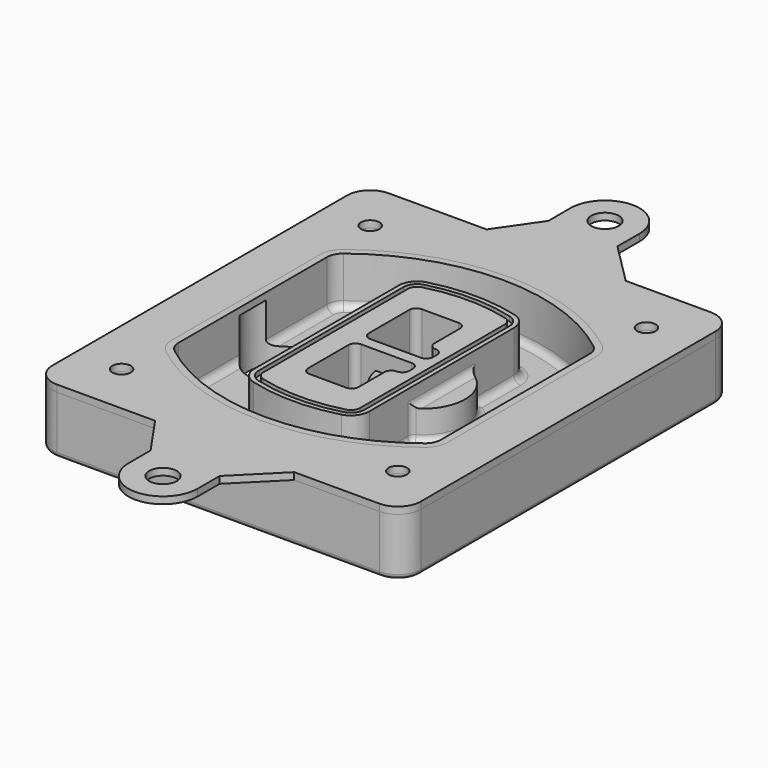
from build123d import *

# Parameters (mm, degrees)
F0_R      = 4
F1_DEPTH  = 25
F2_DEPTH  = 3
F3_DEPTH  = 18
F5_DEPTH  = 21
F6_DEPTH  = 2
F8_DEPTH  = 20
F9_DEPTH  = 16
F10_DEPTH = 25
F7_R      = 6
F7_R_2    = 4
F11_DEPTH = 6
F13_DEPTH = 9
F14_R     = 3
F15_R     = 2
F16_R     = 4
F16_R_2   = 6
F17_DEPTH = 3


with BuildPart() as f1:
    # F0 (on Top) → F1 (new body)
    with BuildSketch(Plane.XY):
        with BuildLine():
            ThreePointArc((-80, -80), (-77.0710678119, -87.0710678119), (-70, -90))
            Line((-70, -90), (70, -90))
            ThreePointArc((70, -90), (77.0710678119, -87.0710678119), (80, -80))
            Line((80, -80), (80, 80))
            ThreePointArc((80, 80), (77.0710678119, 87.0710678119), (70, 90))
            Line((70, 90), (-70, 90))
            ThreePointArc((-70, 90), (-77.0710678119, 87.0710678119), (-80, 80))
            Line((-80, 80), (-80, -80))
        make_face()
        with Locations((-60, -67.5)):
            Circle(F0_R, mode=Mode.SUBTRACT)
        with Locations((60, -67.5)):
            Circle(F0_R, mode=Mode.SUBTRACT)
        with Locations((-60, 67.5)):
            Circle(F0_R, mode=Mode.SUBTRACT)
        with BuildLine():
            ThreePointArc((-64, 40.2934422872), (-62.5820384798, 46.4328484224), (-58.6153846154, 51.3286200352))
            ThreePointArc((-58.6153846154, 51.3286200352), (0, 71.5), (58.6153846154, 51.3286200352))
            ThreePointArc((58.6153846154, 51.3286200352), (62.5820384798, 46.4328484224), (64, 40.2934422872))
            Line((64, 40.2934422872), (64, -40.2934422872))
            ThreePointArc((64, -40.2934422872), (62.5820384798, -46.4328484224), (58.6153846154, -51.3286200352))
            ThreePointArc((58.6153846154, -51.3286200352), (0, -71.5), (-58.6153846154, -51.3286200352))
            ThreePointArc((-58.6153846154, -51.3286200352), (-62.5820384798, -46.4328484224), (-64, -40.2934422872))
            Line((-64, -40.2934422872), (-64, 40.2934422872))
        make_face(mode=Mode.SUBTRACT)
        with Locations((60, 67.5)):
            Circle(F0_R, mode=Mode.SUBTRACT)
        with BuildLine():
            ThreePointArc((58.6153846154, 51.3286200352), (0, 71.5), (-58.6153846154, 51.3286200352))
            ThreePointArc((-58.6153846154, 51.3286200352), (-62.5820384798, 46.4328484224), (-64, 40.2934422872))
            Line((-64, 40.2934422872), (-64, -40.2934422872))
            ThreePointArc((-64, -40.2934422872), (-62.5820384798, -46.4328484224), (-58.6153846154, -51.3286200352))
            ThreePointArc((-58.6153846154, -51.3286200352), (0, -71.5), (58.6153846154, -51.3286200352))
            ThreePointArc((58.6153846154, -51.3286200352), (62.5820384798, -46.4328484224), (64, -40.2934422872))
            Line((64, -40.2934422872), (64, 40.2934422872))
            ThreePointArc((64, 40.2934422872), (62.5820384798, 46.4328484224), (58.6153846154, 51.3286200352))
        make_face()
        with BuildLine():
            Line((-60, -40.2934422872), (-60, 40.2934422872))
            ThreePointArc((-60, 40.2934422872), (-58.9871703427, 44.6787323838), (-56.1538461538, 48.1757121072))
            ThreePointArc((-56.1538461538, 48.1757121072), (0, 67.5), (56.1538461538, 48.1757121072))
            ThreePointArc((56.1538461538, 48.1757121072), (58.9871703427, 44.6787323838), (60, 40.2934422872))
            Line((60, 40.2934422872), (60, -40.2934422872))
            ThreePointArc((60, -40.2934422872), (58.9871703427, -44.6787323838), (56.1538461538, -48.1757121072))
            ThreePointArc((56.1538461538, -48.1757121072), (0, -67.5), (-56.1538461538, -48.1757121072))
            ThreePointArc((-56.1538461538, -48.1757121072), (-58.9871703427, -44.6787323838), (-60, -40.2934422872))
        make_face(mode=Mode.SUBTRACT)
        with BuildLine():
            ThreePointArc((-56.1538461538, 48.1757121072), (-58.9871703427, 44.6787323838), (-60, 40.2934422872))
            Line((-60, 40.2934422872), (-60, -40.2934422872))
            ThreePointArc((-60, -40.2934422872), (-58.9871703427, -44.6787323838), (-56.1538461538, -48.1757121072))
            ThreePointArc((-56.1538461538, -48.1757121072), (0, -67.5), (56.1538461538, -48.1757121072))
            ThreePointArc((56.1538461538, -48.1757121072), (58.9871703427, -44.6787323838), (60, -40.2934422872))
            Line((60, -40.2934422872), (60, 40.2934422872))
            ThreePointArc((60, 40.2934422872), (58.9871703427, 44.6787323838), (56.1538461538, 48.1757121072))
            ThreePointArc((56.1538461538, 48.1757121072), (0, 67.5), (-56.1538461538, 48.1757121072))
        make_face()
        with BuildLine():
            ThreePointArc((54.3076923077, 45.8110311612), (56.2910192399, 43.3631453548), (57, 40.2934422872))
            Line((57, 40.2934422872), (57, -40.2934422872))
            ThreePointArc((57, -40.2934422872), (56.2910192399, -43.3631453548), (54.3076923077, -45.8110311612))
            ThreePointArc((54.3076923077, -45.8110311612), (0, -64.5), (-54.3076923077, -45.8110311612))
            ThreePointArc((-54.3076923077, -45.8110311612), (-56.2910192399, -43.3631453548), (-57, -40.2934422872))
            Line((-57, -40.2934422872), (-57, 40.2934422872))
            ThreePointArc((-57, 40.2934422872), (-56.2910192399, 43.3631453548), (-54.3076923077, 45.8110311612))
            ThreePointArc((-54.3076923077, 45.8110311612), (0, 64.5), (54.3076923077, 45.8110311612))
        make_face(mode=Mode.SUBTRACT)
        with BuildLine():
            Line((57, -40.2934422872), (57, 40.2934422872))
            ThreePointArc((57, 40.2934422872), (56.2910192399, 43.3631453548), (54.3076923077, 45.8110311612))
            ThreePointArc((54.3076923077, 45.8110311612), (0, 64.5), (-54.3076923077, 45.8110311612))
            ThreePointArc((-54.3076923077, 45.8110311612), (-56.2910192399, 43.3631453548), (-57, 40.2934422872))
            Line((-57, 40.2934422872), (-57, -40.2934422872))
            ThreePointArc((-57, -40.2934422872), (-56.2910192399, -43.3631453548), (-54.3076923077, -45.8110311612))
            ThreePointArc((-54.3076923077, -45.8110311612), (0, -64.5), (54.3076923077, -45.8110311612))
            ThreePointArc((54.3076923077, -45.8110311612), (56.2910192399, -43.3631453548), (57, -40.2934422872))
        make_face()
    extrude(amount=-F1_DEPTH)

    # F0 (on Top) → F2 (join)
    with BuildSketch(Plane.XY):
        with BuildLine():
            ThreePointArc((-56.1538461538, 48.1757121072), (-58.9871703427, 44.6787323838), (-60, 40.2934422872))
            Line((-60, 40.2934422872), (-60, -40.2934422872))
            ThreePointArc((-60, -40.2934422872), (-58.9871703427, -44.6787323838), (-56.1538461538, -48.1757121072))
            ThreePointArc((-56.1538461538, -48.1757121072), (0, -67.5), (56.1538461538, -48.1757121072))
            ThreePointArc((56.1538461538, -48.1757121072), (58.9871703427, -44.6787323838), (60, -40.2934422872))
            Line((60, -40.2934422872), (60, 40.2934422872))
            ThreePointArc((60, 40.2934422872), (58.9871703427, 44.6787323838), (56.1538461538, 48.1757121072))
            ThreePointArc((56.1538461538, 48.1757121072), (0, 67.5), (-56.1538461538, 48.1757121072))
        make_face()
        with BuildLine():
            ThreePointArc((54.3076923077, 45.8110311612), (56.2910192399, 43.3631453548), (57, 40.2934422872))
            Line((57, 40.2934422872), (57, -40.2934422872))
            ThreePointArc((57, -40.2934422872), (56.2910192399, -43.3631453548), (54.3076923077, -45.8110311612))
            ThreePointArc((54.3076923077, -45.8110311612), (0, -64.5), (-54.3076923077, -45.8110311612))
            ThreePointArc((-54.3076923077, -45.8110311612), (-56.2910192399, -43.3631453548), (-57, -40.2934422872))
            Line((-57, -40.2934422872), (-57, 40.2934422872))
            ThreePointArc((-57, 40.2934422872), (-56.2910192399, 43.3631453548), (-54.3076923077, 45.8110311612))
            ThreePointArc((-54.3076923077, 45.8110311612), (0, 64.5), (54.3076923077, 45.8110311612))
        make_face(mode=Mode.SUBTRACT)
    extrude(amount=F2_DEPTH)

    # F0 (on Top) → F3 (cut)
    with BuildSketch(Plane.XY):
        with BuildLine():
            Line((57, -40.2934422872), (57, 40.2934422872))
            ThreePointArc((57, 40.2934422872), (56.2910192399, 43.3631453548), (54.3076923077, 45.8110311612))
            ThreePointArc((54.3076923077, 45.8110311612), (0, 64.5), (-54.3076923077, 45.8110311612))
            ThreePointArc((-54.3076923077, 45.8110311612), (-56.2910192399, 43.3631453548), (-57, 40.2934422872))
            Line((-57, 40.2934422872), (-57, -40.2934422872))
            ThreePointArc((-57, -40.2934422872), (-56.2910192399, -43.3631453548), (-54.3076923077, -45.8110311612))
            ThreePointArc((-54.3076923077, -45.8110311612), (0, -64.5), (54.3076923077, -45.8110311612))
            ThreePointArc((54.3076923077, -45.8110311612), (56.2910192399, -43.3631453548), (57, -40.2934422872))
        make_face()
    extrude(amount=-F3_DEPTH, mode=Mode.SUBTRACT)

    # F4 (on face) → F5 (join, through all)
    with BuildSketch(Plane.XY.offset(3)):
        with BuildLine():
            ThreePointArc((-25, -39.2465276821), (-23.3511545998, -44.1109737193), (-19.0842911877, -46.9702398883))
            ThreePointArc((-19.0842911877, -46.9702398883), (0, -49.5), (19.0842911877, -46.9702398883))
            ThreePointArc((19.0842911877, -46.9702398883), (23.3511545998, -44.1109737193), (25, -39.2465276821))
            Line((25, -39.2465276821), (25, 39.2465276821))
            ThreePointArc((25, 39.2465276821), (23.3511545998, 44.1109737193), (19.0842911877, 46.9702398883))
            ThreePointArc((19.0842911877, 46.9702398883), (0, 49.5), (-19.0842911877, 46.9702398883))
            ThreePointArc((-19.0842911877, 46.9702398883), (-23.3511545998, 44.1109737193), (-25, 39.2465276821))
            Line((-25, 39.2465276821), (-25, -39.2465276821))
        make_face()
        with BuildLine():
            ThreePointArc((18.5632183908, 45.0393118368), (21.7633659499, 42.89486221), (23, 39.2465276821))
            Line((23, 39.2465276821), (23, -39.2465276821))
            ThreePointArc((23, -39.2465276821), (21.7633659499, -42.89486221), (18.5632183908, -45.0393118368))
            ThreePointArc((18.5632183908, -45.0393118368), (0, -47.5), (-18.5632183908, -45.0393118368))
            ThreePointArc((-18.5632183908, -45.0393118368), (-21.7633659499, -42.89486221), (-23, -39.2465276821))
            Line((-23, -39.2465276821), (-23, 39.2465276821))
            ThreePointArc((-23, 39.2465276821), (-21.7633659499, 42.89486221), (-18.5632183908, 45.0393118368))
            ThreePointArc((-18.5632183908, 45.0393118368), (0, 47.5), (18.5632183908, 45.0393118368))
        make_face(mode=Mode.SUBTRACT)
        with BuildLine():
            Line((23, -39.2465276821), (23, 39.2465276821))
            ThreePointArc((23, 39.2465276821), (21.7633659499, 42.89486221), (18.5632183908, 45.0393118368))
            ThreePointArc((18.5632183908, 45.0393118368), (0, 47.5), (-18.5632183908, 45.0393118368))
            ThreePointArc((-18.5632183908, 45.0393118368), (-21.7633659499, 42.89486221), (-23, 39.2465276821))
            Line((-23, 39.2465276821), (-23, -39.2465276821))
            ThreePointArc((-23, -39.2465276821), (-21.7633659499, -42.89486221), (-18.5632183908, -45.0393118368))
            ThreePointArc((-18.5632183908, -45.0393118368), (0, -47.5), (18.5632183908, -45.0393118368))
            ThreePointArc((18.5632183908, -45.0393118368), (21.7633659499, -42.89486221), (23, -39.2465276821))
        make_face()
        with BuildLine():
            ThreePointArc((18.0421455939, 43.1083837852), (20.1755772999, 41.6787507007), (21, 39.2465276821))
            Line((21, 39.2465276821), (21, -39.2465276821))
            ThreePointArc((21, -39.2465276821), (20.1755772999, -41.6787507007), (18.0421455939, -43.1083837852))
            ThreePointArc((18.0421455939, -43.1083837852), (0, -45.5), (-18.0421455939, -43.1083837852))
            ThreePointArc((-18.0421455939, -43.1083837852), (-20.1755772999, -41.6787507007), (-21, -39.2465276821))
            Line((-21, -39.2465276821), (-21, 39.2465276821))
            ThreePointArc((-21, 39.2465276821), (-20.1755772999, 41.6787507007), (-18.0421455939, 43.1083837852))
            ThreePointArc((-18.0421455939, 43.1083837852), (0, 45.5), (18.0421455939, 43.1083837852))
        make_face(mode=Mode.SUBTRACT)
        with BuildLine():
            Line((21, -39.2465276821), (21, 39.2465276821))
            ThreePointArc((21, 39.2465276821), (20.1755772999, 41.6787507007), (18.0421455939, 43.1083837852))
            ThreePointArc((18.0421455939, 43.1083837852), (0, 45.5), (-18.0421455939, 43.1083837852))
            ThreePointArc((-18.0421455939, 43.1083837852), (-20.1755772999, 41.6787507007), (-21, 39.2465276821))
            Line((-21, 39.2465276821), (-21, -39.2465276821))
            ThreePointArc((-21, -39.2465276821), (-20.1755772999, -41.6787507007), (-18.0421455939, -43.1083837852))
            ThreePointArc((-18.0421455939, -43.1083837852), (0, -45.5), (18.0421455939, -43.1083837852))
            ThreePointArc((18.0421455939, -43.1083837852), (20.1755772999, -41.6787507007), (21, -39.2465276821))
        make_face()
        with BuildLine():
            Line((-8, -2.5), (14, -2.5))
            ThreePointArc((14, -2.5), (16.1213203436, -3.3786796564), (17, -5.5))
            Line((17, -5.5), (17, -7.5))
            ThreePointArc((17, -7.5), (16.1213203436, -9.6213203436), (14, -10.5))
            ThreePointArc((14, -10.5), (11.8786796564, -11.3786796564), (11, -13.5))
            Line((11, -13.5), (11, -27.5))
            ThreePointArc((11, -27.5), (10.1213203436, -29.6213203436), (8, -30.5))
            Line((8, -30.5), (-8, -30.5))
            ThreePointArc((-8, -30.5), (-10.1213203436, -29.6213203436), (-11, -27.5))
            Line((-11, -27.5), (-11, -5.5))
            ThreePointArc((-11, -5.5), (-10.1213203436, -3.3786796564), (-8, -2.5))
        make_face(mode=Mode.SUBTRACT)
        with BuildLine():
            ThreePointArc((-8, 2.5), (-10.1213203436, 3.3786796564), (-11, 5.5))
            Line((-11, 5.5), (-11, 27.5))
            ThreePointArc((-11, 27.5), (-10.1213203436, 29.6213203436), (-8, 30.5))
            Line((-8, 30.5), (8, 30.5))
            ThreePointArc((8, 30.5), (10.1213203436, 29.6213203436), (11, 27.5))
            Line((11, 27.5), (11, 13.5))
            ThreePointArc((11, 13.5), (11.8786796564, 11.3786796564), (14, 10.5))
            ThreePointArc((14, 10.5), (16.1213203436, 9.6213203436), (17, 7.5))
            Line((17, 7.5), (17, 5.5))
            ThreePointArc((17, 5.5), (16.1213203436, 3.3786796564), (14, 2.5))
            Line((14, 2.5), (-8, 2.5))
        make_face(mode=Mode.SUBTRACT)
    extrude(amount=-F5_DEPTH)

    # F4 (on face) → F6 (cut)
    with BuildSketch(Plane.XY.offset(3)):
        with BuildLine():
            Line((23, -39.2465276821), (23, 39.2465276821))
            ThreePointArc((23, 39.2465276821), (21.7633659499, 42.89486221), (18.5632183908, 45.0393118368))
            ThreePointArc((18.5632183908, 45.0393118368), (0, 47.5), (-18.5632183908, 45.0393118368))
            ThreePointArc((-18.5632183908, 45.0393118368), (-21.7633659499, 42.89486221), (-23, 39.2465276821))
            Line((-23, 39.2465276821), (-23, -39.2465276821))
            ThreePointArc((-23, -39.2465276821), (-21.7633659499, -42.89486221), (-18.5632183908, -45.0393118368))
            ThreePointArc((-18.5632183908, -45.0393118368), (0, -47.5), (18.5632183908, -45.0393118368))
            ThreePointArc((18.5632183908, -45.0393118368), (21.7633659499, -42.89486221), (23, -39.2465276821))
        make_face()
        with BuildLine():
            ThreePointArc((18.0421455939, 43.1083837852), (20.1755772999, 41.6787507007), (21, 39.2465276821))
            Line((21, 39.2465276821), (21, -39.2465276821))
            ThreePointArc((21, -39.2465276821), (20.1755772999, -41.6787507007), (18.0421455939, -43.1083837852))
            ThreePointArc((18.0421455939, -43.1083837852), (0, -45.5), (-18.0421455939, -43.1083837852))
            ThreePointArc((-18.0421455939, -43.1083837852), (-20.1755772999, -41.6787507007), (-21, -39.2465276821))
            Line((-21, -39.2465276821), (-21, 39.2465276821))
            ThreePointArc((-21, 39.2465276821), (-20.1755772999, 41.6787507007), (-18.0421455939, 43.1083837852))
            ThreePointArc((-18.0421455939, 43.1083837852), (0, 45.5), (18.0421455939, 43.1083837852))
        make_face(mode=Mode.SUBTRACT)
    extrude(amount=-F6_DEPTH, mode=Mode.SUBTRACT)

    # F7 (on face) → F8 (join)
    with BuildSketch(Plane(origin=(0, 0, -25), x_dir=(1, 0, 0), z_dir=(0, 0, -1))):
        with BuildLine():
            ThreePointArc((3.28842436, 0), (16.7567035675, 13.4682792075), (30.224982775, 0))
            Line((30.224982775, 0), (35.224982775, 0))
            ThreePointArc((35.224982775, 0), (16.7567035675, 18.4682792075), (-1.71157564, 0))
            Line((-1.71157564, 0), (3.28842436, 0))
        make_face()
        with BuildLine():
            Line((3.28842436, 0), (30.224982775, 0))
            ThreePointArc((30.224982775, 0), (16.7567035675, 13.4682792075), (3.28842436, 0))
        make_face()
        with BuildLine():
            ThreePointArc((3.28842436, 0), (16.7567035675, -13.4682792075), (30.224982775, 0))
            Line((30.224982775, 0), (3.28842436, 0))
        make_face()
        with BuildLine():
            Line((35.224982775, 0), (30.224982775, 0))
            ThreePointArc((30.224982775, 0), (16.7567035675, -13.4682792075), (3.28842436, 0))
            Line((3.28842436, 0), (-1.71157564, 0))
            ThreePointArc((-1.71157564, 0), (16.7567035675, -18.4682792075), (35.224982775, 0))
        make_face()
    extrude(amount=-F8_DEPTH)

    # F7 (on face) → F9 (cut)
    with BuildSketch(Plane(origin=(0, 0, -25), x_dir=(1, 0, 0), z_dir=(0, 0, -1))):
        with BuildLine():
            Line((3.28842436, 0), (30.224982775, 0))
            ThreePointArc((30.224982775, 0), (16.7567035675, 13.4682792075), (3.28842436, 0))
        make_face()
        with BuildLine():
            ThreePointArc((3.28842436, 0), (16.7567035675, -13.4682792075), (30.224982775, 0))
            Line((30.224982775, 0), (3.28842436, 0))
        make_face()
    extrude(amount=-F9_DEPTH, mode=Mode.SUBTRACT)

    # F7 (on face) → F10 (cut)
    with BuildSketch(Plane(origin=(0, 0, -25), x_dir=(1, 0, 0), z_dir=(0, 0, -1))):
        with BuildLine():
            Line((-59.0318229325, 0), (-32.0952645175, 0))
            ThreePointArc((-32.0952645175, 0), (-45.563543725, 13.4682792075), (-59.0318229325, 0))
        make_face()
        with BuildLine():
            ThreePointArc((-59.0318229325, 0), (-45.563543725, -13.4682792075), (-32.0952645175, 0))
            Line((-32.0952645175, 0), (-59.0318229325, 0))
        make_face()
    extrude(amount=-F10_DEPTH, mode=Mode.SUBTRACT)

    # F7 (on face) → F11 (cut)
    with BuildSketch(Plane(origin=(0, 0, -25), x_dir=(1, 0, 0), z_dir=(0, 0, -1))):
        with Locations((60, -67.5)):
            Circle(F7_R)
        with Locations((60, -67.5)):
            Circle(F7_R_2, mode=Mode.SUBTRACT)
        with Locations((60, -67.5)):
            Circle(F7_R)
        with Locations((60, -67.5)):
            Circle(F7_R_2, mode=Mode.SUBTRACT)
        with Locations((-60, -67.5)):
            Circle(F7_R)
        with Locations((-60, -67.5)):
            Circle(F7_R_2, mode=Mode.SUBTRACT)
        with Locations((-60, -67.5)):
            Circle(F7_R)
        with Locations((-60, -67.5)):
            Circle(F7_R_2, mode=Mode.SUBTRACT)
        with Locations((-60, 67.5)):
            Circle(F7_R)
        with Locations((-60, 67.5)):
            Circle(F7_R_2, mode=Mode.SUBTRACT)
        with Locations((-60, 67.5)):
            Circle(F7_R)
        with Locations((-60, 67.5)):
            Circle(F7_R_2, mode=Mode.SUBTRACT)
        with Locations((60, 67.5)):
            Circle(F7_R)
        with Locations((60, 67.5)):
            Circle(F7_R_2, mode=Mode.SUBTRACT)
        with Locations((60, 67.5)):
            Circle(F7_R)
        with Locations((60, 67.5)):
            Circle(F7_R_2, mode=Mode.SUBTRACT)
    extrude(amount=-F11_DEPTH, mode=Mode.SUBTRACT)

    # F12 (on face) → F13 (cut, through all)
    with BuildSketch(Plane(origin=(0, 0, -9), x_dir=(1, 0, 0), z_dir=(0, 0, -1))):
        with BuildLine():
            Line((11, 13.5), (11, 17.5481537753))
            ThreePointArc((11, 17.5481537753), (2.5696536419, 11.8239143813), (-1.5415842455, 2.5))
            Line((-1.5415842455, 2.5), (3.5224848595, 2.5))
            ThreePointArc((3.5224848595, 2.5), (6.1857188154, 8.3455872281), (11.2536447004, 12.2927168648))
            ThreePointArc((11.2536447004, 12.2927168648), (11.0640958889, 12.8831798879), (11, 13.5))
        make_face()
        with BuildLine():
            ThreePointArc((11.2536447004, -12.2927168648), (6.1857188154, -8.3455872281), (3.5224848595, -2.5))
            Line((3.5224848595, -2.5), (-1.5415842455, -2.5))
            ThreePointArc((-1.5415842455, -2.5), (2.5696536419, -11.8239143813), (11, -17.5481537753))
            Line((11, -17.5481537753), (11, -13.5))
            ThreePointArc((11, -13.5), (11.0640958889, -12.8831798879), (11.2536447004, -12.2927168648))
        make_face()
        with BuildLine():
            ThreePointArc((11.2536447004, 12.2927168648), (6.1857188154, 8.3455872281), (3.5224848595, 2.5))
            Line((3.5224848595, 2.5), (14, 2.5))
            ThreePointArc((14, 2.5), (16.1213203436, 3.3786796564), (17, 5.5))
            Line((17, 5.5), (17, 7.5))
            ThreePointArc((17, 7.5), (16.1213203436, 9.6213203436), (14, 10.5))
            ThreePointArc((14, 10.5), (12.3601599782, 10.9878446101), (11.2536447004, 12.2927168648))
        make_face()
        with BuildLine():
            Line((14, -2.5), (3.5224848595, -2.5))
            ThreePointArc((3.5224848595, -2.5), (6.1857188154, -8.3455872281), (11.2536447004, -12.2927168648))
            ThreePointArc((11.2536447004, -12.2927168648), (12.3601599782, -10.9878446101), (14, -10.5))
            ThreePointArc((14, -10.5), (16.1213203436, -9.6213203436), (17, -7.5))
            Line((17, -7.5), (17, -5.5))
            ThreePointArc((17, -5.5), (16.1213203436, -3.3786796564), (14, -2.5))
        make_face()
    extrude(amount=F13_DEPTH, mode=Mode.SUBTRACT)

    # F14
    f14_edges = [f1.edges().sort_by_distance(p)[0] for p in [
        (-57, -23.703476, -18),
        (-57, 23.703476, -18),
        (25, 0, -5),
        (25, 16.526506, -11.5),
        (25, -16.526506, -11.5),
        (25, -27.886517, -18),
        (35.224983, 0, -18),
    ]]
    fillet(f14_edges, radius=F14_R)

    # F15
    f15_edges = [f1.edges().sort_by_distance(p)[0] for p in [
        (0, -90, -25),
    ]]
    fillet(f15_edges, radius=F15_R)


with BuildPart() as f17:
    # F16 (on face) → F17 (new body, through all)
    with BuildSketch(Plane.XY):
        with BuildLine():
            Line((-27.43810229, 90), (-70, 90))
            ThreePointArc((-70, 90), (-77.0710678119, 87.0710678119), (-80, 80))
            Line((-80, 80), (-80, -80))
            ThreePointArc((-80, -80), (-77.0710678119, -87.0710678119), (-70, -90))
            Line((-70, -90), (-27.43810229, -90))
            Line((-27.43810229, -90), (33, -90))
            Line((33, -90), (70, -90))
            ThreePointArc((70, -90), (77.0710678119, -87.0710678119), (80, -80))
            Line((80, -80), (80, 80))
            ThreePointArc((80, 80), (77.0710678119, 87.0710678119), (70, 90))
            Line((70, 90), (33, 90))
            Line((33, 90), (-27.43810229, 90))
        make_face()
        with Locations((-60, -67.5)):
            Circle(F16_R, mode=Mode.SUBTRACT)
        with Locations((60, -67.5)):
            Circle(F16_R, mode=Mode.SUBTRACT)
        with Locations((-60, 67.5)):
            Circle(F16_R, mode=Mode.SUBTRACT)
        with BuildLine():
            Line((-60, -40.2934422872), (-60, 40.2934422872))
            ThreePointArc((-60, 40.2934422872), (-58.9871703427, 44.6787323838), (-56.1538461538, 48.1757121072))
            ThreePointArc((-56.1538461538, 48.1757121072), (0, 67.5), (56.1538461538, 48.1757121072))
            ThreePointArc((56.1538461538, 48.1757121072), (58.9871703427, 44.6787323838), (60, 40.2934422872))
            Line((60, 40.2934422872), (60, -40.2934422872))
            ThreePointArc((60, -40.2934422872), (58.9871703427, -44.6787323838), (56.1538461538, -48.1757121072))
            ThreePointArc((56.1538461538, -48.1757121072), (0, -67.5), (-56.1538461538, -48.1757121072))
            ThreePointArc((-56.1538461538, -48.1757121072), (-58.9871703427, -44.6787323838), (-60, -40.2934422872))
        make_face(mode=Mode.SUBTRACT)
        with Locations((60, 67.5)):
            Circle(F16_R, mode=Mode.SUBTRACT)
        with BuildLine():
            Line((-15, 108), (-27.43810229, 90))
            Line((-27.43810229, 90), (33, 90))
            Line((33, 90), (15, 108))
            Line((15, 108), (15, 120))
            ThreePointArc((15, 120), (0, 135), (-15, 120))
            Line((-15, 120), (-15, 108))
        make_face()
        with Locations((0, 120)):
            Circle(F16_R_2, mode=Mode.SUBTRACT)
        with BuildLine():
            Line((33, -90), (-27.43810229, -90))
            Line((-27.43810229, -90), (-15, -108))
            Line((-15, -108), (-15, -120))
            ThreePointArc((-15, -120), (0, -135), (15, -120))
            Line((15, -120), (15, -108))
            Line((15, -108), (33, -90))
        make_face()
        with Locations((0, -120)):
            Circle(F16_R_2, mode=Mode.SUBTRACT)
    extrude(amount=F17_DEPTH)


solid = Compound([f1.part, f17.part])
